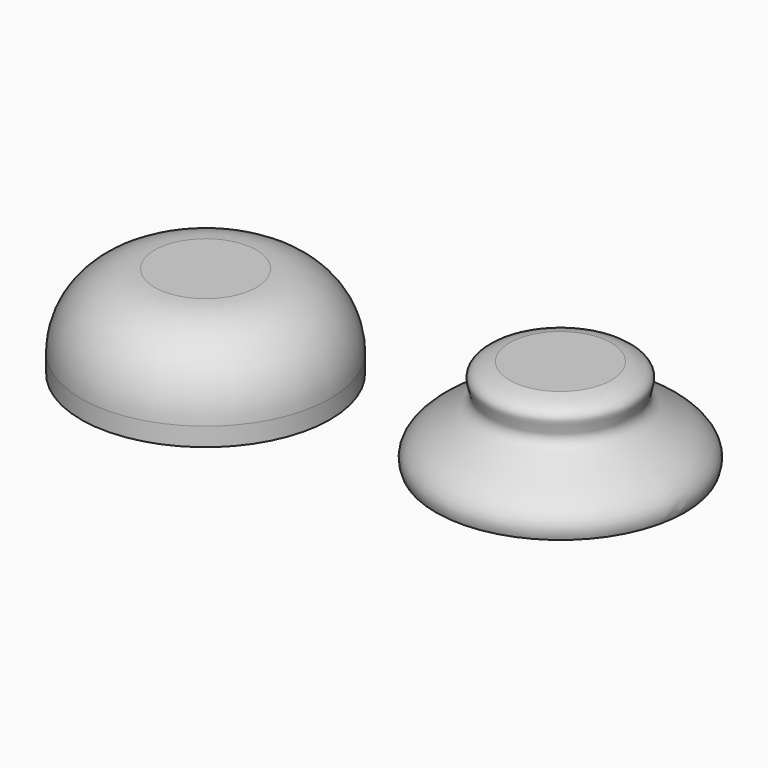
from build123d import *

# Parameters (mm, degrees)
F1_R     = 13.5
F2_DEPTH = 10
F3_R     = 8


with BuildPart() as f2:
    # F1 (on Top) → F2 (new body)
    with BuildSketch(Plane.XY):
        with Locations((-34.0726189315, -5.4693240672)):
            Circle(F1_R)
    extrude(amount=F2_DEPTH)

    # F3
    f3_edges = [f2.edges().sort_by_distance(p)[0] for p in [
        (-47.572619, -5.469324, 10),
    ]]
    fillet(f3_edges, radius=F3_R)


with BuildPart() as f4:
    # F0 (on Front) → F4 (revolve)
    with BuildSketch(Plane.XZ):
        with BuildLine():
            Line((0, 10), (0, 0))
            Line((0, 0), (13.5, 0))
            add(Edge.make_bspline(
                [(5.5, 10), (6.7971260972, 9.8302323694), (8.8385621408, 8.8673802769), (5.8828330601, 5.3747327276), (14.8069802613, 3.1232523833), (13.5, 0)],
                knots=[0, 0, 0, 0, 0.2742061065, 0.5284752142, 1, 1, 1, 1], degree=3))
            Line((5.5, 10), (0, 10))
        make_face()
    revolve(axis=Axis((0, 0, 5), (0, 0, 1)))


solid = Compound([f2.part, f4.part])
